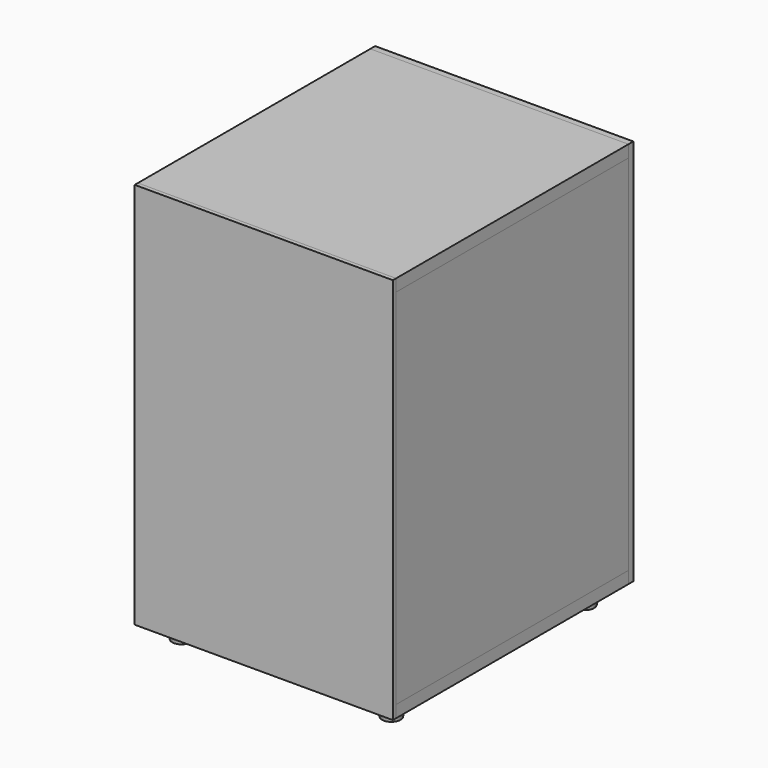
from build123d import *

# Parameters (mm, degrees)
F0_W      = 406.4
F0_H      = 457.2
F1_DEPTH  = 19.05
F3_W      = 406.4
F3_H      = 457.2
F4_DEPTH  = 19.05
F5_W      = 457.2
F5_H      = 571.5
F6_DEPTH  = 19.05
F8_W      = 25.4
F8_H      = 25.4
F9_DEPTH  = 457.2
F11_W     = 25.4
F11_H     = 25.4
F12_DEPTH = 317.5
F16_W     = 25.4
F16_H     = 25.4
F17_DEPTH = 520.7
F20_W     = 406.4
F20_H     = 609.6
F21_DEPTH = 9.525
F22_R     = 63.5
F23_DEPTH = 9.525
F24_W     = 406.4
F24_H     = 590.55
F24_H_2   = 19.05
F25_DEPTH = 6.35
F26_R     = 19.05
F27_DEPTH = 25.4
F27_TAPER = 10


with BuildPart() as f1:
    # F0 (on Top) → F1 (new body)
    with BuildSketch(Plane.XY):
        Rectangle(F0_W, F0_H)
    extrude(amount=F1_DEPTH)


with BuildPart() as f4:
    # F3 (on offset) → F4 (new body)
    with BuildSketch(Plane(origin=(0, 0, 609.6), x_dir=(1, 0, 0), z_dir=(0, 0, -1))):
        Rectangle(F3_W, F3_H)
    extrude(amount=F4_DEPTH)


with BuildPart() as f6:
    # F5 (on face) → F6 (new body)
    with BuildSketch(Plane.YZ.offset(203.2)):
        with Locations((0, 304.8)):
            Rectangle(F5_W, F5_H)
    extrude(amount=-F6_DEPTH)


with BuildPart() as f7_1:
    # F7: instance of F6
    add(f6.part.mirror(Plane.YZ))


with BuildPart() as f9:
    # F8 (on face) → F9 (new body, through all)
    with BuildSketch(Plane.XZ.offset(228.6)):
        with Locations((171.45, 31.75)):
            Rectangle(F8_W, F8_H)
    extrude(amount=-F9_DEPTH)


with BuildPart() as f10_1:
    # F10: instance of F9
    add(f9.part.mirror(Plane.YZ))


with BuildPart() as f12:
    # F11 (on face) → F12 (new body, through all)
    with BuildSketch(Plane(origin=(158.75, 0, 0), x_dir=(0, -1, 0), z_dir=(-1, 0, 0))):
        with Locations((215.9, 31.75)):
            Rectangle(F11_W, F11_H)
    extrude(amount=F12_DEPTH)


with BuildPart() as f13_1:
    # F13: instance of F12
    add(f12.part.mirror(Plane.XZ))


with BuildPart() as f15_1:
    # F15: instance of F10_1
    add(f10_1.part.mirror(Plane.XY.offset(304.8)))


with BuildPart() as f15_2:
    # F15: instance of F13_1
    add(f13_1.part.mirror(Plane.XY.offset(304.8)))


with BuildPart() as f15_3:
    # F15: instance of F9
    add(f9.part.mirror(Plane.XY.offset(304.8)))


with BuildPart() as f15_4:
    # F15: instance of F12
    add(f12.part.mirror(Plane.XY.offset(304.8)))


with BuildPart() as f17:
    # F16 (on face) → F17 (new body, through all)
    with BuildSketch(Plane.XY.offset(44.45)):
        with Locations((171.45, -215.9)):
            Rectangle(F16_W, F16_H)
    extrude(amount=F17_DEPTH)


with BuildPart() as f18_1:
    # F18: instance of F17
    add(f17.part.mirror(Plane.XZ))


with BuildPart() as f19_1:
    # F19: instance of F17
    add(f17.part.mirror(Plane.YZ))


with BuildPart() as f19_2:
    # F19: instance of F18_1
    add(f18_1.part.mirror(Plane.YZ))


with BuildPart() as f21:
    # F20 (on face) → F21 (new body)
    with BuildSketch(Plane(origin=(0, 228.6, 0), x_dir=(-1, 0, 0), z_dir=(0, 1, 0))):
        with Locations((0, 304.8)):
            Rectangle(F20_W, F20_H)
    extrude(amount=F21_DEPTH)

    # F22 (on face) → F23 (cut, through all)
    with BuildSketch(Plane(origin=(0, 238.125, 0), x_dir=(-1, 0, 0), z_dir=(0, 1, 0))):
        with Locations((0, 209.55)):
            Circle(F22_R)
    extrude(amount=-F23_DEPTH, mode=Mode.SUBTRACT)


with BuildPart() as f25:
    # F24 (on face) → F25 (new body)
    with BuildSketch(Plane.XZ.offset(228.6)):
        with Locations((0, 314.325)):
            Rectangle(F24_W, F24_H)
        with Locations((0, 9.525)):
            Rectangle(F24_W, F24_H_2)
    extrude(amount=F25_DEPTH)


with BuildPart() as f27:
    # F26 (on face) → F27 (new body)
    with BuildSketch(Plane(origin=(0, 0, 0), x_dir=(1, 0, 0), z_dir=(0, 0, -1))):
        with Locations((165.1, 190.5)):
            Circle(F26_R)
    extrude(amount=F27_DEPTH, taper=F27_TAPER)


with BuildPart() as f28_1:
    # F28: instance of F27
    add(f27.part.mirror(Plane.XZ))


with BuildPart() as f29_1:
    # F29: instance of F27
    add(f27.part.mirror(Plane.YZ))


with BuildPart() as f29_2:
    # F29: instance of F28_1
    add(f28_1.part.mirror(Plane.YZ))


solid = Compound([f1.part, f4.part, f6.part, f7_1.part, f9.part, f10_1.part, f12.part, f13_1.part, f15_1.part, f15_2.part, f15_3.part, f15_4.part, f17.part, f18_1.part, f19_1.part, f19_2.part, f21.part, f25.part, f27.part, f28_1.part, f29_1.part, f29_2.part])
